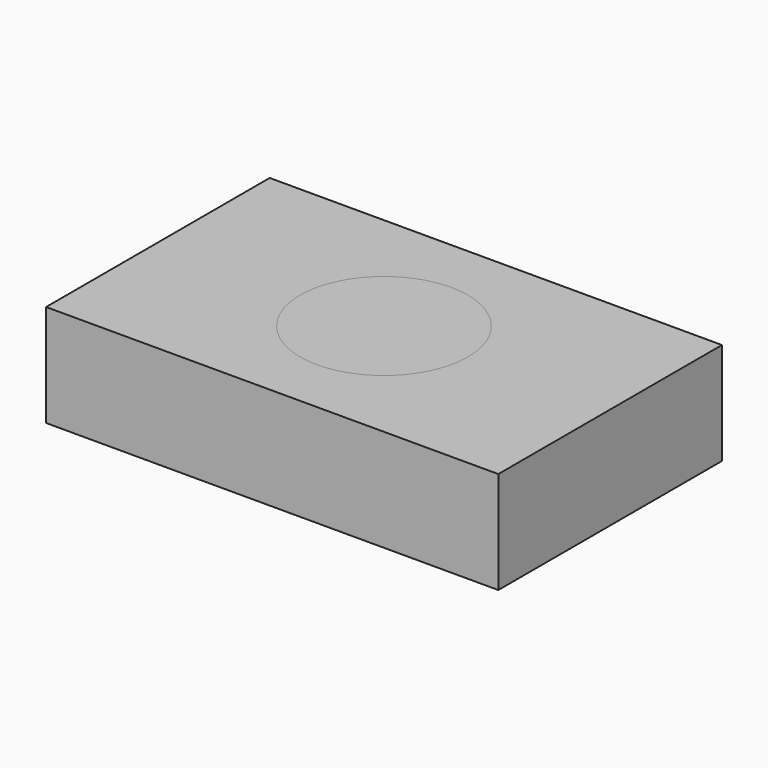
from build123d import *

# Parameters (mm, degrees)
F0_W     = 112.4813705683
F0_H     = 69.5165470243
F2_DEPTH = 25.4
F1_R     = 20.8541710189


with BuildPart() as f2:
    # F0 (on Top) → F2 (new body)
    with BuildSketch(Plane.XY):
        Rectangle(F0_W, F0_H)
    extrude(amount=F2_DEPTH)


with BuildPart() as f2b:
    # F1 (on Top) → F2, piece 2 (new body)
    with BuildSketch(Plane.XY):
        Circle(F1_R)
    extrude(amount=F2_DEPTH)


solid = Compound([f2.part, f2b.part])
